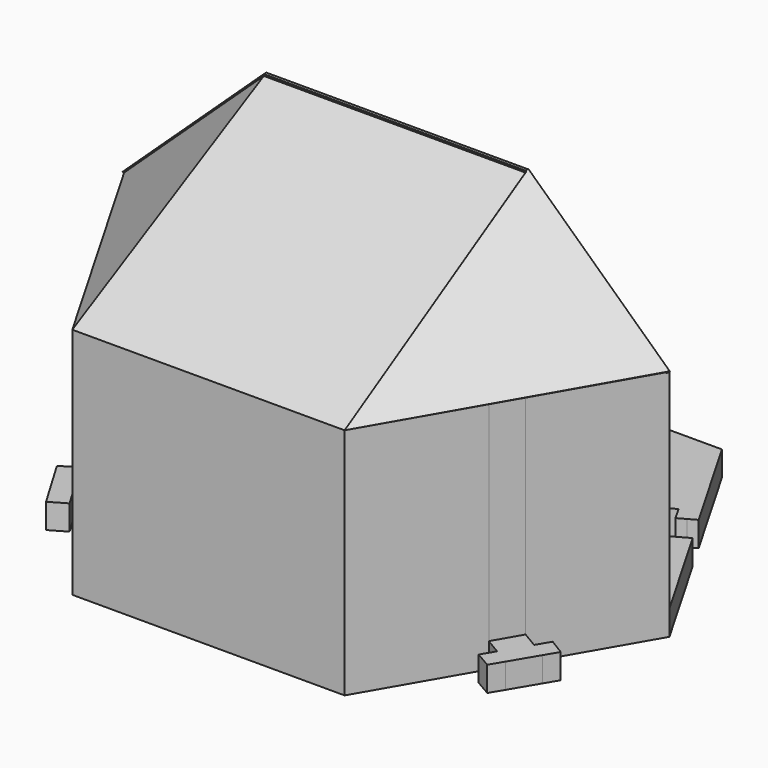
from build123d import *

# Parameters (mm, degrees)
F0_W      = 50
F0_H      = 12.5
F1_DEPTH  = 8
F2_DEPTH  = 75
F4_DEPTH  = 8
F7_DEPTH  = 3
F8_DEPTH  = 1
F11_DEPTH = 3
F14_DEPTH = 3
F15_DEPTH = 8
F16_DEPTH = 8
F17_DEPTH = 8


with BuildPart() as f1:
    # F0 (on Top) → F1 (new body)
    with BuildSketch(Plane.XY):
        Polygon((-42.0179491924, 72.7772228311), (-60.5095952989, 40.7487522591), (-57.9695070384, 39.3207329262), (-55.5194165334, 43.6791064608), (-50.2642610162, 40.7248836223), (-52.7144317239, 36.366367418), (-57.615009792, 27.6494680496), (-60.0654171506, 23.2910848888), (-65.3204122546, 26.2455930623), (-62.870004896, 30.6039762231), (-65.5097997054, 32.0881441788), (-84.0358983849, 0), (-42.0179491924, -72.7772228311), (42.0179491924, -72.7772228311), (84.0358983849, 0), (65.5097997054, 32.0881441788), (62.870004896, 30.6039762231), (65.3204122546, 26.2455930623), (60.0654171506, 23.2910848888), (57.615009792, 27.6494680496), (55.164720758, 32.0079177338), (52.7144317239, 36.366367418), (50.2642610162, 40.7248836223), (55.5194165334, 43.6791064608), (57.9695070384, 39.3207329262), (60.5095952989, 40.7487522591), (42.0179491924, 72.7772228311), align=None)
        with Locations((0, 54.5829171234)):
            Rectangle(F0_W, F0_H, mode=Mode.SUBTRACT)
    extrude(amount=F1_DEPTH)

    # F0 (on Top) → F2 (join)
    with BuildSketch(Plane.XY):
        Polygon((68.1246734519, -33.5590499945), (87.5, 0), (84.0358983849, 0), (42.0179491924, -72.7772228311), (-42.0179491924, -72.7772228311), (-84.0358983849, 0), (-87.5, 0), (-68.1246734519, -33.5590499945), (-63.1745123486, -42.1329805311), (-43.75, -75.7772228311), (43.75, -75.7772228311), (63.1745123486, -42.1329805311), align=None)
    extrude(amount=F2_DEPTH)

    # F0 (on Top) → F4 (join)
    with BuildSketch(Plane.XY):
        Polygon((43.75, 75.7772228311), (-43.75, 75.7772228311), (-63.1248363216, 42.2190219338), (-60.5095952989, 40.7487522591), (-42.0179491924, 72.7772228311), (42.0179491924, 72.7772228311), (60.5095952989, 40.7487522591), (63.1248363216, 42.2190219338), align=None)
    extrude(amount=F4_DEPTH)

    # F6 (on face) → F7 (join)
    with BuildSketch(Plane(origin=(0, -50.1312366318, 89.3836679776), x_dir=(1, 0, 0), z_dir=(0, 0.4891706574, -0.872188092))):
        Polygon((43.75, 29.4041920927), (0, 29.4041920927), (-43.75, 29.4041920927), (-42.01795, -57.4775522498), (42.01795, -57.4775522498), align=None)
    extrude(amount=F7_DEPTH)

    # F3 (on Front) → F8 (join)
    with BuildSketch(Plane.XZ):
        Polygon((-42.01795, 114.5), (0, 114.5), (42.01795, 114.5), (84.0359, 75), (87.5, 75), (42.01795, 117.5), (0, 117.5), (-42.01795, 117.5), (-87.5, 75), (-84.0359, 75), align=None)
    extrude(amount=F8_DEPTH)

    # F10 (on face) → F11 (join)
    with BuildSketch(Plane(origin=(-67.6846727043, -39.0777640058, 72.4338274863), x_dir=(0.7723629594, -0.3015876344, 0.5590173143), z_dir=(-0.6351814378, -0.3667221741, 0.6797495039))):
        Polygon((33.2314262259, 55.789645187), (-25.6554603702, 35.6104118215), (30.9888924807, -31.0804218073), align=None)
    extrude(amount=-F11_DEPTH)

    # F13 (on face) → F14 (join)
    with BuildSketch(Plane(origin=(67.6756688636, -39.5950852503, 72.4241918832), x_dir=(0.7733047167, 0.3041472681, -0.556322078), z_dir=(-0.6340345536, 0.3709553614, -0.6785221475))):
        Polygon((-30.939509805, 30.5117392321), (-32.8751652468, -56.3649154418), (25.9400068576, -35.9776056011), align=None)
    extrude(amount=F14_DEPTH)

    # F0 (on Top) → F15 (join)
    with BuildSketch(Plane.XY):
        with Locations((0, 54.5829171234)):
            Rectangle(F0_W, F0_H)
    extrude(amount=F15_DEPTH)

    # F0 (on Top) → F16 (join)
    with BuildSketch(Plane.XY):
        Polygon((-78.4478092981, -39.6772904524), (-73.3299584755, -36.6440801541), (-75.878553621, -32.3439069124), (-80.9460908184, -35.4620099819), align=None)
        Polygon((-63.1745123486, -42.1329805311), (-68.1246734519, -33.5590499945), (-73.3299584755, -36.6440801541), (-78.4478092981, -39.6772904524), (-73.3985163623, -48.1928433322), (-68.2616414678, -45.1481695385), align=None)
        Polygon((-65.7363801019, -49.4055813149), (-68.2616414678, -45.1481695385), (-73.3985163623, -48.1928433322), (-70.880193178, -52.396181094), align=None)
        Polygon((75.878553621, -32.3439069124), (73.3299584755, -36.6440801541), (78.4478092981, -39.6772904524), (80.9460908184, -35.4620099819), align=None)
        Polygon((73.3299584755, -36.6440801541), (68.1246734519, -33.5590499945), (63.1745123486, -42.1329805311), (68.2616414678, -45.1481695385), (73.3985163623, -48.1928433322), (78.4478092981, -39.6772904524), align=None)
        Polygon((73.3985163623, -48.1928433322), (68.2616414678, -45.1481695385), (65.7363801019, -49.4055813149), (70.880193178, -52.396181094), align=None)
    extrude(amount=F16_DEPTH)

    # F0 (on Top) → F17 (join)
    with BuildSketch(Plane.XY):
        Polygon((-65.625, 32.1529130712), (-68.125, 33.5584843966), (-87.5, 0), (-84.0358983849, 0), (-65.5097997054, 32.0881441788), align=None)
        Polygon((87.5, 0), (68.125, 33.5584843966), (65.5097997054, 32.0881441788), (84.0358983849, 0), align=None)
    extrude(amount=F17_DEPTH)


solid = f1.part
